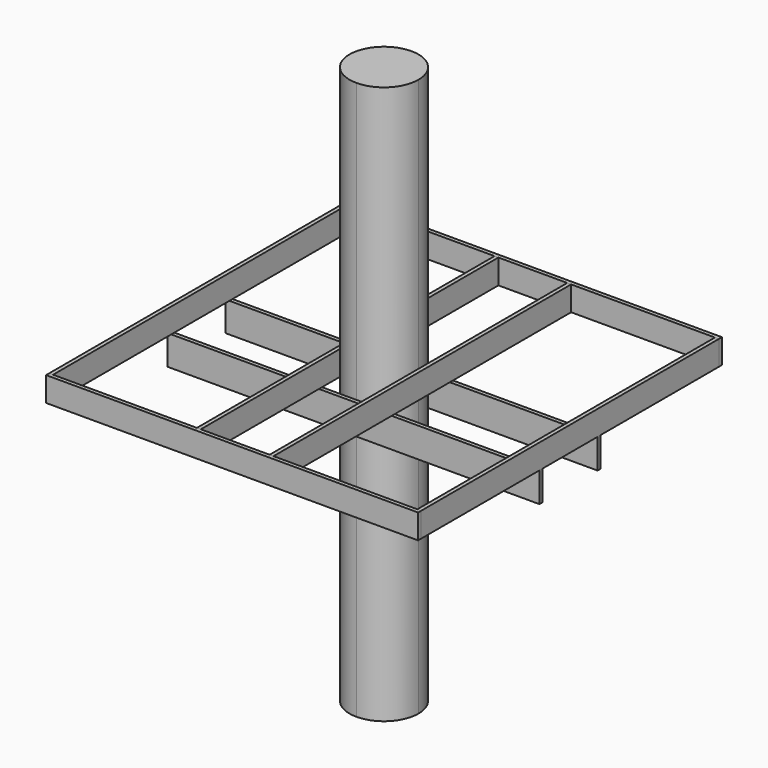
from build123d import *

# Parameters (mm, degrees)
F1_DEPTH = 2743.2
F2_DEPTH = 292.1
F3_W     = 38.1
F3_H     = 3657.6
F4_DEPTH = 241.3
F5_DEPTH = 241.3


with BuildPart() as f1:
    # F0 (on Top) → F1 (new body, symmetric)
    with BuildSketch(Plane.XY):
        with BuildLine():
            ThreePointArc((0, -338.455), (239.323826, -239.323826), (338.455, 0))
            ThreePointArc((338.455, 0), (239.323825, 239.323826), (-1e-06, 338.455))
            ThreePointArc((-1e-06, 338.455), (-338.455, -1e-06), (0, -338.455))
        make_face()
    extrude(amount=F1_DEPTH, both=True)


with BuildPart() as f2:
    # F0 (on Top) → F2 (new body)
    with BuildSketch(Plane.XY):
        Polygon((1828.8, -338.455), (0, -338.455), (-1828.8, -338.455), (-1828.8, -376.555), (1828.8, -376.555), align=None)
        Polygon((-1828.8, 338.455), (-1e-06, 338.455), (1828.8, 338.455), (1828.8, 376.555), (-1828.8, 376.555), align=None)
    extrude(amount=-F2_DEPTH)


with BuildPart() as f4:
    # F3 (on Top) → F4 (new body)
    with BuildSketch(Plane.XY):
        with Locations((-1809.75, 0)):
            Rectangle(F3_W, F3_H)
        Polygon((-338.455, -1828.8), (-338.455, -2e-06), (-338.455, 1828.8), (-376.555, 1828.8), (-376.555, -1828.8), align=None)
        Polygon((338.455, 1828.8), (338.455, 0), (338.455, -1828.8), (376.555, -1828.8), (376.555, 1828.8), align=None)
        with Locations((1809.75, 0)):
            Rectangle(F3_W, F3_H)
    extrude(amount=F4_DEPTH)


with BuildPart() as f5:
    # F3 (on Top) → F5 (new body)
    with BuildSketch(Plane.XY):
        Polygon((376.555, -1828.8), (338.455, -1828.8), (-338.455, -1828.8), (-376.555, -1828.8), (-1790.7, -1828.8), (-1828.8, -1828.8), (-1828.8, -1866.9), (1828.8, -1866.9), (1828.8, -1828.8), (1790.7, -1828.8), align=None)
        Polygon((-338.455, 1828.8), (338.455, 1828.8), (376.555, 1828.8), (1790.7, 1828.8), (1828.8, 1828.8), (1828.8, 1866.9), (-1828.8, 1866.9), (-1828.8, 1828.8), (-1790.7, 1828.8), (-376.555, 1828.8), align=None)
    extrude(amount=F5_DEPTH)


solid = Compound([f1.part, f2.part, f4.part, f5.part])
